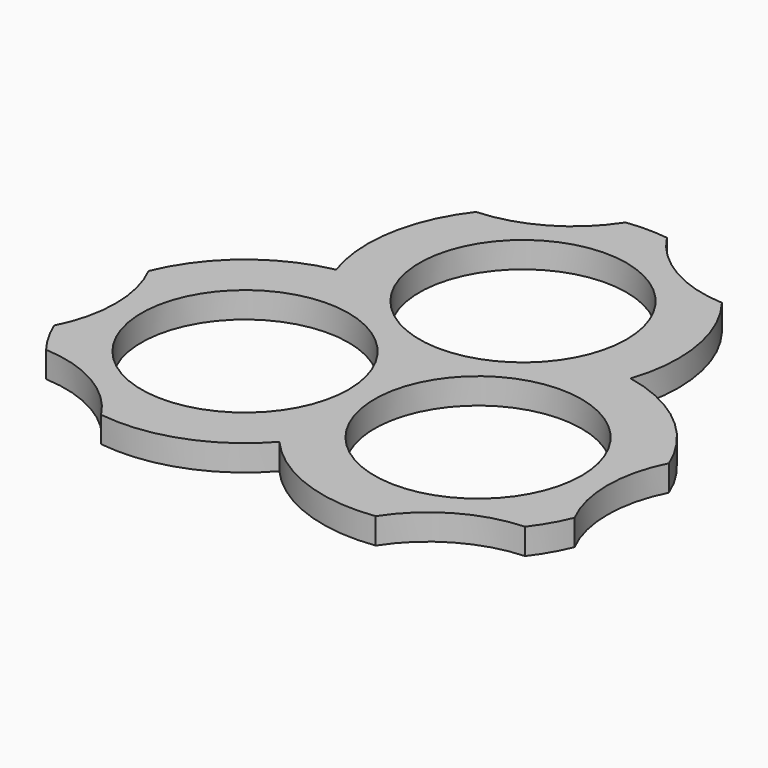
from build123d import *

# Parameters (mm, degrees)
F0_R     = 12.7
F1_DEPTH = 3.175


with BuildPart() as f1:
    # F0 (on Top) → F1 (new body)
    with BuildSketch(Plane.XY):
        with BuildLine():
            ThreePointArc((-16.82951, -27.128529), (-7.628193, -26.097033), (0, -20.849283))
            ThreePointArc((0, -20.849283), (7.628193, -26.097033), (16.82951, -27.128529))
            ThreePointArc((16.82951, -27.128529), (22.225, -21.997045), (29.36674, -19.890155))
            ThreePointArc((29.36674, -19.890155), (30.785284, -17.773892), (31.90875, -15.487265))
            ThreePointArc((31.90875, -15.487265), (30.1625, -8.248892), (31.90875, -1.010519))
            ThreePointArc((31.90875, -1.010519), (26.41479, 6.442307), (18.056008, 10.424641))
            ThreePointArc((18.056008, 10.424641), (18.786597, 19.654725), (15.07924, 28.139047))
            ThreePointArc((15.07924, 28.139047), (7.9375, 30.245937), (2.54201, 35.377421))
            ThreePointArc((2.54201, 35.377421), (0, 35.547784), (-2.54201, 35.377421))
            ThreePointArc((-2.54201, 35.377421), (-7.9375, 30.245937), (-15.07924, 28.139047))
            ThreePointArc((-15.07924, 28.139047), (-18.786597, 19.654725), (-18.056008, 10.424641))
            ThreePointArc((-18.056008, 10.424641), (-26.41479, 6.442307), (-31.90875, -1.010519))
            ThreePointArc((-31.90875, -1.010519), (-30.1625, -8.248892), (-31.90875, -15.487265))
            ThreePointArc((-31.90875, -15.487265), (-30.785284, -17.773892), (-29.36674, -19.890155))
            ThreePointArc((-29.36674, -19.890155), (-22.225, -21.997045), (-16.82951, -27.128529))
        make_face()
        with Locations((-14.2875, -8.248892)):
            Circle(F0_R, mode=Mode.SUBTRACT)
        with Locations((14.2875, -8.248892)):
            Circle(F0_R, mode=Mode.SUBTRACT)
        with Locations((0, 16.497784)):
            Circle(F0_R, mode=Mode.SUBTRACT)
    extrude(amount=F1_DEPTH)


solid = f1.part
